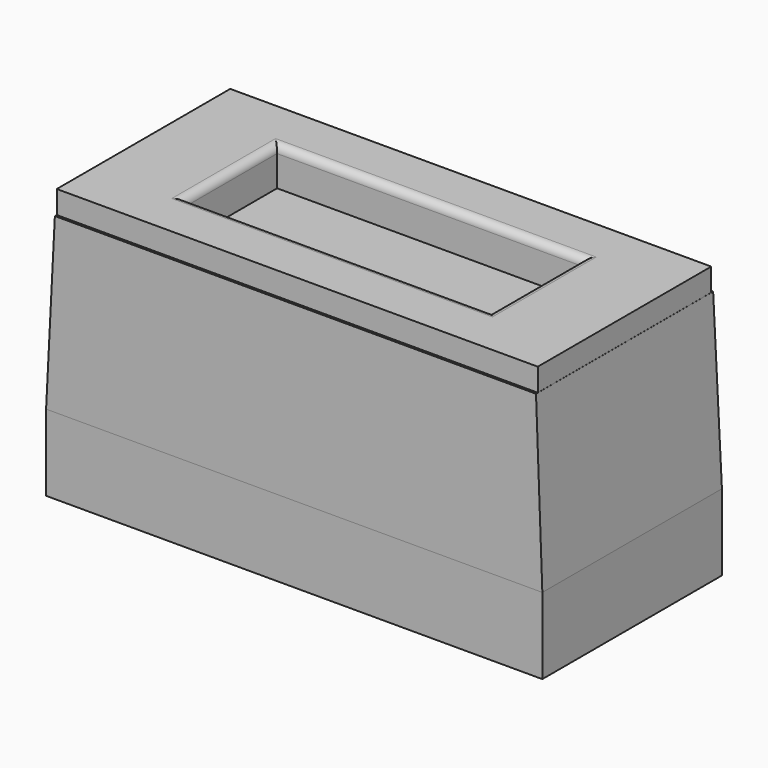
from build123d import *

# Parameters (mm, degrees)
SKETCH_W         = 6.5
SKETCH_H         = 2.94
PAD_DEPTH        = 3.55
SKETCH001_W      = 6.5
SKETCH001_H      = 2.94
SKETCH001_W_2    = 6.3
SKETCH001_H_2    = 2.84
POCKET_DEPTH     = 0.3
CHAMFER_SIZE2    = 2.25
CHAMFER_SIZE     = 0.099
CHAMFER001_SIZE2 = 2.25
CHAMFER001_SIZE  = 0.099
CHAMFER002_SIZE2 = 2.25
CHAMFER002_SIZE  = 0.02
CHAMFER003_SIZE2 = 2.25
CHAMFER003_SIZE  = 0.02
SKETCH002_W      = 4
SKETCH002_H      = 1.5
POCKET001_DEPTH  = 0.5
FILLET_R         = 0.1


with BuildPart() as part:
    # Sketch → Pad (new body)
    with BuildSketch(Plane.XY):
        Rectangle(SKETCH_W, SKETCH_H)
    extrude(amount=PAD_DEPTH)

    # Sketch001 (on Face6 of Pad) → Pocket (cut)
    with BuildSketch(Plane.XY.offset(3.55)):
        Rectangle(SKETCH001_W, SKETCH001_H)
        Rectangle(SKETCH001_W_2, SKETCH001_H_2, mode=Mode.SUBTRACT)
    extrude(amount=-POCKET_DEPTH, mode=Mode.SUBTRACT)

    # Chamfer
    chamfer_edges = [part.edges().sort_by_distance(p)[0] for p in [
        (-3.25, 0, 3.25),
    ]]
    chamfer_side = part.faces().sort_by_distance((0, -1.462866, 3.25))[0]
    chamfer(chamfer_edges, length=CHAMFER_SIZE, length2=CHAMFER_SIZE2, reference=chamfer_side)

    # Chamfer001
    chamfer001_edges = [part.edges().sort_by_distance(p)[0] for p in [
        (3.25, 0, 3.25),
    ]]
    chamfer001_side = part.faces().sort_by_distance((0.0495, -1.462956, 3.25))[0]
    chamfer(chamfer001_edges, length=CHAMFER001_SIZE, length2=CHAMFER001_SIZE2, reference=chamfer001_side)

    # Chamfer002
    chamfer002_edges = [part.edges().sort_by_distance(p)[0] for p in [
        (0, 1.47, 3.25),
    ]]
    chamfer002_side = part.faces().sort_by_distance((0, -1.463046, 3.25))[0]
    chamfer(chamfer002_edges, length=CHAMFER002_SIZE, length2=CHAMFER002_SIZE2, reference=chamfer002_side)

    # Chamfer003
    chamfer003_edges = [part.edges().sort_by_distance(p)[0] for p in [
        (0, -1.47, 3.25),
    ]]
    chamfer003_side = part.faces().sort_by_distance((0, 1.443054, 3.25))[0]
    chamfer(chamfer003_edges, length=CHAMFER003_SIZE, length2=CHAMFER003_SIZE2, reference=chamfer003_side)

    # Sketch002 (on Face14 of Chamfer003) → Pocket001 (cut)
    with BuildSketch(Plane.XY.offset(3.55)):
        Rectangle(SKETCH002_W, SKETCH002_H)
    extrude(amount=-POCKET001_DEPTH, mode=Mode.SUBTRACT)

    # Fillet
    fillet_edges = [part.edges().sort_by_distance(p)[0] for p in [
        (2, 0, 3.55),
        (0, -0.75, 3.55),
        (0, 0.75, 3.55),
        (-2, 0, 3.55),
    ]]
    fillet(fillet_edges, radius=FILLET_R)


with BuildPart() as part_1:
    # Body placement: moved
    add(part.part.moved(Location((0, 0, 0.4))))


solid = part_1.part
